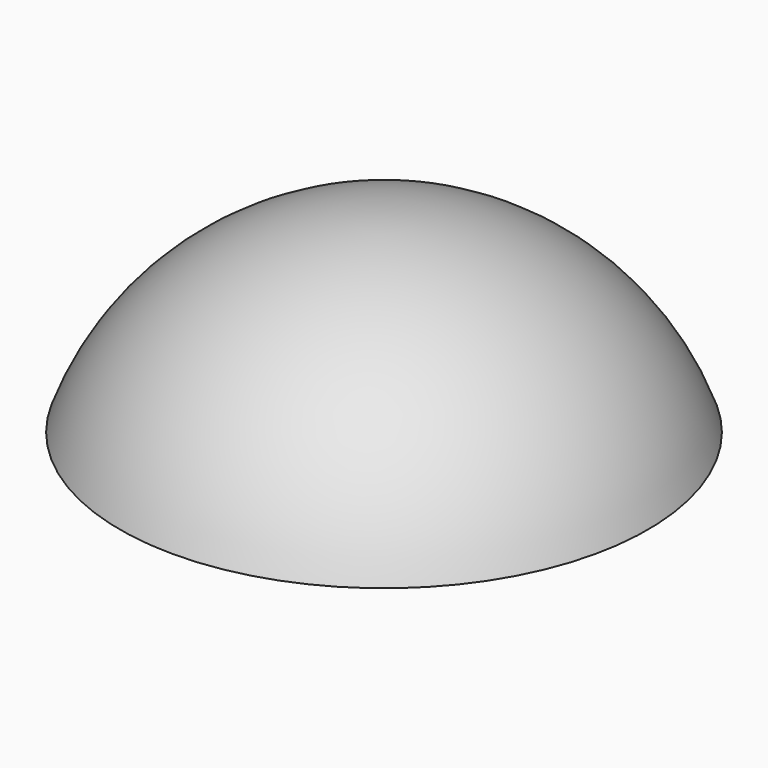
from build123d import *


with BuildPart() as f1:
    # F0 (on Right) → F1 (revolve)
    with BuildSketch(Plane.YZ):
        with BuildLine():
            Line((0, 38.1), (0, 36.5125))
            ThreePointArc((0, 36.5125), (20.8501067893, 29.9739170467), (34.2326256114, 12.7))
            Line((34.2326256114, 12.7), (35.9210244843, 12.7))
            ThreePointArc((35.9210244843, 12.7), (21.9970452561, 31.1085197333), (0, 38.1))
        make_face()
    revolve(axis=Axis((0, 0, 19.05), (0, 0, -1)))


solid = f1.part
